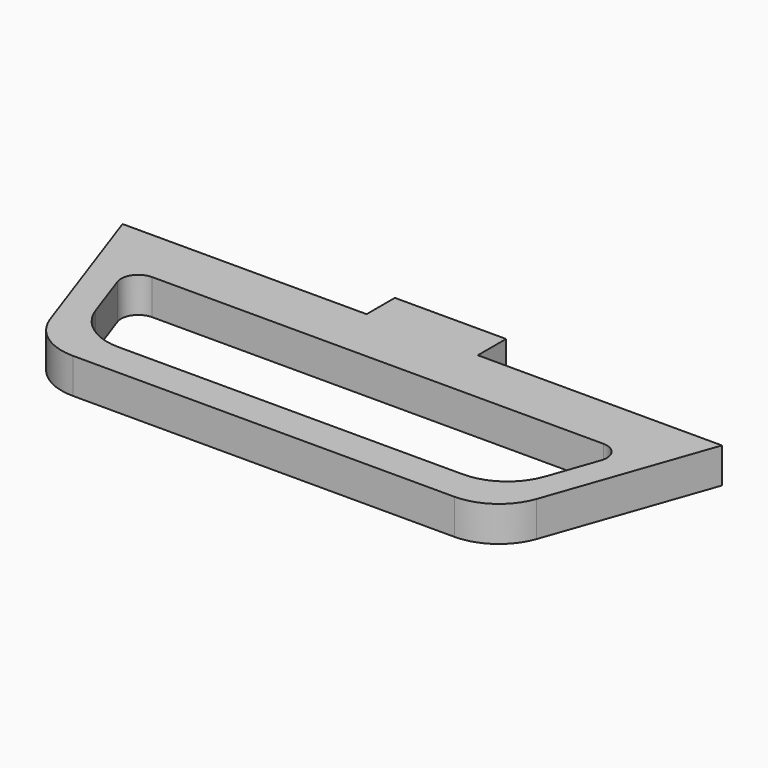
from build123d import *

# Parameters (mm, degrees)
F1_DEPTH = 3.175


with BuildPart() as f1:
    # F0 (on Top) → F1 (new body)
    with BuildSketch(Plane.XY):
        with BuildLine():
            Line((25.241197, 4.974793), (3.295561, 4.974793))
            Line((3.295561, 4.974793), (3.295561, 8.149793))
            Line((3.295561, 8.149793), (-1.704439, 8.149793))
            Line((-1.704439, 8.149793), (-6.704439, 8.149793))
            Line((-6.704439, 8.149793), (-6.704439, 4.974793))
            Line((-6.704439, 4.974793), (-28.650075, 4.974793))
            Line((-28.650075, 4.974793), (-23.579421, -9.504047))
            ThreePointArc((-23.579421, -9.504047), (-21.753258, -11.929592), (-18.86044, -12.851406))
            Line((-18.86044, -12.851406), (-1.704439, -12.851406))
            Line((-1.704439, -12.851406), (15.451562, -12.851406))
            ThreePointArc((15.451562, -12.851406), (18.34438, -11.929592), (20.170542, -9.504047))
            Line((20.170542, -9.504047), (25.241197, 4.974793))
        make_face()
        with BuildLine():
            ThreePointArc((18.575678, -0.025208), (19.840188, -0.678574), (20.038877, -2.08797))
            Line((20.038877, -2.08797), (18.505102, -6.467537))
            ThreePointArc((18.505102, -6.467537), (16.67894, -8.893082), (13.786122, -9.814896))
            Line((13.786122, -9.814896), (-17.195, -9.814896))
            ThreePointArc((-17.195, -9.814896), (-20.087818, -8.893082), (-21.913981, -6.467537))
            Line((-21.913981, -6.467537), (-23.447755, -2.08797))
            ThreePointArc((-23.447755, -2.08797), (-23.249066, -0.678574), (-21.984557, -0.025208))
            Line((-21.984557, -0.025208), (18.575678, -0.025208))
        make_face(mode=Mode.SUBTRACT)
    extrude(amount=F1_DEPTH)


solid = f1.part
